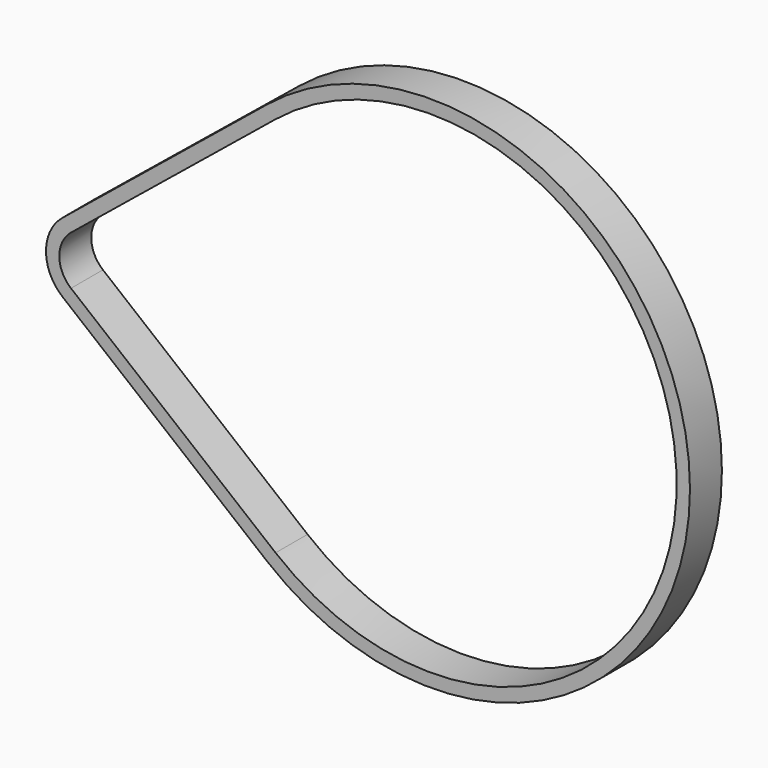
from build123d import *

# Parameters (mm, degrees)
F1_DEPTH = 6
F3_DEPTH = 25
F5_DEPTH = 6


with BuildPart() as f1:
    # F0 (on Front) → F1 (new body)
    with BuildSketch(Plane.XZ):
        with BuildLine():
            Line((58.7550879584, 58.5268499794), (89.4948039231, 33.5402062991))
            ThreePointArc((89.4948039231, 33.5402062991), (151.3819243933, 62.9887506366), (89.4948039231, 92.4372949741))
            Line((89.4948039231, 92.4372949741), (58.7550879584, 67.4506512938))
            ThreePointArc((58.7550879584, 67.4506512938), (56.6319243933, 62.9887506366), (58.7550879584, 58.5268499794))
        make_face()
    extrude(amount=F1_DEPTH)

    # F2 (on face) → F3 (cut)
    with BuildSketch(Plane.XZ.offset(6)):
        with BuildLine():
            Line((90.1255580857, 91.6613122511), (59.385842121, 66.6746685708))
            ThreePointArc((59.385842121, 66.6746685708), (57.6319243933, 62.9887506366), (59.385842121, 59.3028327024))
            Line((59.385842121, 59.3028327024), (90.1255580857, 34.3161890221))
            ThreePointArc((90.1255580857, 34.3161890221), (150.3819243933, 62.9887506366), (90.1255580857, 91.6613122511))
        make_face()
    extrude(amount=-F3_DEPTH, mode=Mode.SUBTRACT)

    # F4 (on face) → F5 (join)
    with BuildSketch(Plane.XZ.offset(6)):
        with BuildLine():
            Line((88.8640497606, 93.2132776971), (58.1243337958, 68.2266340168))
            ThreePointArc((58.1243337958, 68.2266340168), (55.6319243933, 62.9887506366), (58.1243337958, 57.7508672564))
            Line((58.1243337958, 57.7508672564), (88.8640497606, 32.7642235761))
            ThreePointArc((88.8640497606, 32.7642235761), (152.3819243933, 62.9887506366), (88.8640497606, 93.2132776971))
        make_face()
        with BuildLine():
            Line((58.7550879584, 67.4506512938), (89.4948039231, 92.4372949741))
            ThreePointArc((89.4948039231, 92.4372949741), (151.3819243933, 62.9887506366), (89.4948039231, 33.5402062991))
            Line((89.4948039231, 33.5402062991), (58.7550879584, 58.5268499794))
            ThreePointArc((58.7550879584, 58.5268499794), (56.6319243933, 62.9887506366), (58.7550879584, 67.4506512938))
        make_face(mode=Mode.SUBTRACT)
    extrude(amount=-F5_DEPTH)


solid = f1.part
